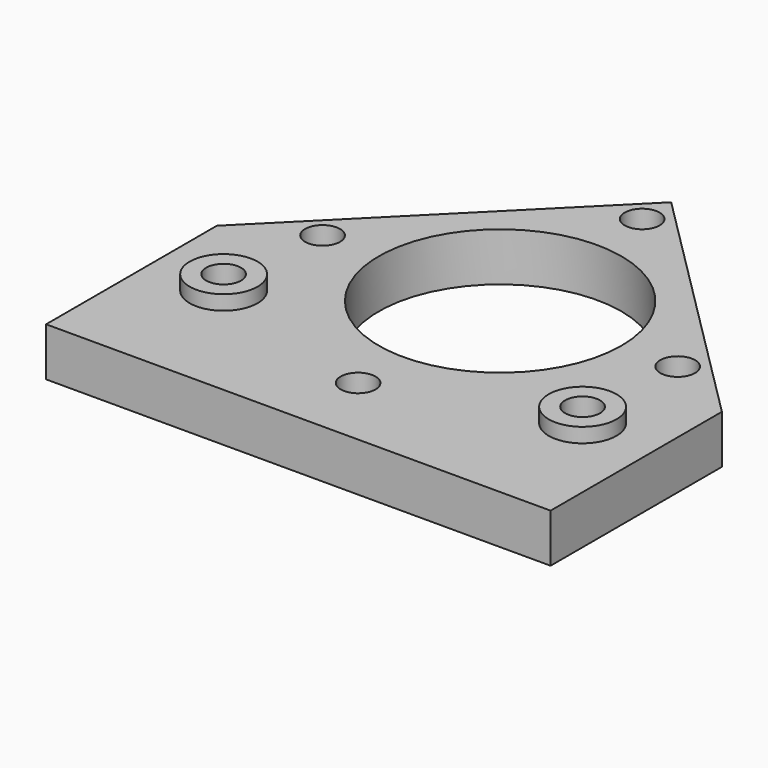
from build123d import *

# Parameters (mm, degrees)
SKETCH_W        = 52
SKETCH_H        = 52
PAD_DEPTH       = 5
SKETCH005_R     = 3.5
PAD001_DEPTH    = 1.5
SKETCH001_R     = 12.5
SKETCH001_R_2   = 1.8
POCKET_DEPTH    = 6.501
SKETCH006_R     = 3.7
POCKET001_DEPTH = 2.5


with BuildPart() as part:
    # Sketch → Pad (new body)
    with BuildSketch(Plane.XY):
        Rectangle(SKETCH_W, SKETCH_H)
    extrude(amount=PAD_DEPTH)

    # Sketch005 → Pad001 (new body)
    with BuildSketch(Plane.XY.offset(5)):
        with Locations((-18.5, -12.5)):
            Circle(SKETCH005_R)
        with Locations((18.5, -12.5)):
            Circle(SKETCH005_R)
    extrude(amount=PAD001_DEPTH)

    # Sketch001 → Pocket (cut, through all)
    with BuildSketch(Plane(origin=(0, 0, 0), x_dir=(1, 0, 0), z_dir=(0, 0, -1))):
        Circle(SKETCH001_R)
        with Locations((0, 18.3)):
            Circle(SKETCH001_R_2)
        with Locations((0, -18.3)):
            Circle(SKETCH001_R_2)
        with Locations((-18.3, 0)):
            Circle(SKETCH001_R_2)
        with Locations((18.3, 0)):
            Circle(SKETCH001_R_2)
        with Locations((-18.5, 12.5)):
            Circle(SKETCH001_R_2)
        with Locations((18.5, 12.5)):
            Circle(SKETCH001_R_2)
        Polygon((-26, 4), (0, -22.037422), (26.037481, 3.962637), (26.037481, -34), (-26, -34), align=None)
    extrude(amount=-POCKET_DEPTH, mode=Mode.SUBTRACT)

    # Sketch006 → Pocket001 (cut)
    with BuildSketch(Plane(origin=(0, 0, 0), x_dir=(1, 0, 0), z_dir=(0, 0, -1))):
        with Locations((-18.3, 0)):
            Circle(SKETCH006_R)
        with Locations((0, 18.3)):
            Circle(SKETCH006_R)
        with Locations((18.3, 0)):
            Circle(SKETCH006_R)
        with Locations((0, -18.3)):
            Circle(SKETCH006_R)
    extrude(amount=-POCKET001_DEPTH, mode=Mode.SUBTRACT)


solid = part.part
